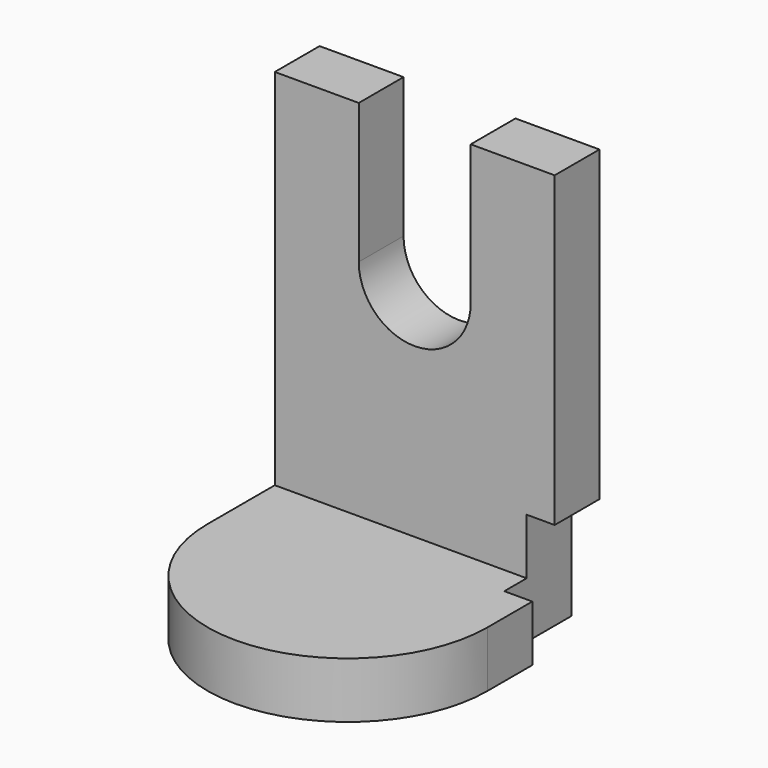
from build123d import *

# Parameters (mm, degrees)
F1_DEPTH = 10
F3_DEPTH = 10
F5_DEPTH = 5


with BuildPart() as f1:
    # F0 (on Front) → F1 (new body)
    with BuildSketch(Plane.XZ):
        with BuildLine():
            Line((-25, 75), (-25, 0))
            Line((-25, 0), (25, 0))
            Line((25, 0), (25, 75))
            Line((25, 75), (10, 75))
            Line((10, 75), (10, 50))
            ThreePointArc((10, 50), (0, 40), (-10, 50))
            Line((-10, 50), (-10, 75))
            Line((-10, 75), (-25, 75))
        make_face()
    extrude(amount=F1_DEPTH)

    # F2 (on Top) → F3 (join)
    with BuildSketch(Plane.XY):
        with BuildLine():
            Line((10, -10), (-10, -10))
            Line((-10, -10), (-25, -10))
            Line((-25, -10), (-25, -25))
            ThreePointArc((-25, -25), (0, -50), (25, -25))
            Line((25, -25), (25, -10))
            Line((25, -10), (10, -10))
        make_face()
    extrude(amount=F3_DEPTH)

    # F4 (on face) → F5 (cut)
    with BuildSketch(Plane.YZ.offset(25)):
        Polygon((0, 20), (-10, 20), (-10, 10), (-15, 10), (-15, 0), (0, 0), align=None)
    extrude(amount=-F5_DEPTH, mode=Mode.SUBTRACT)


solid = f1.part
